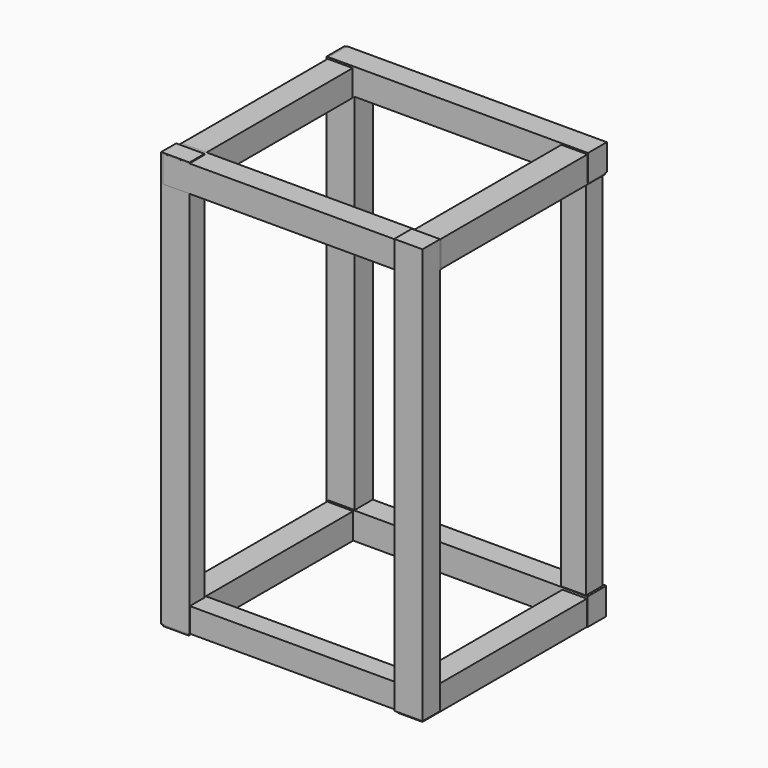
from build123d import *

# Parameters (mm, degrees)
F1_W          = 25
F1_H          = 25.558808
F1_W_2        = 24.041814
F1_H_2        = 25.213313
F1_W_3        = 23.461955
F1_H_3        = 24.010879
F1_H_4        = 25
F2_DEPTH      = 110
F2_DEPTH_BACK = 110
F3_W          = 27.227469
F3_H          = 22.026211
F3_W_2        = 23.886204
F3_H_2        = 20.272776
F3_W_3        = 27.146042
F3_H_3        = 21.162175
F3_H_4        = 18.046282
F4_DEPTH      = 250
F4_DEPTH_BACK = 150
F5_W          = 22.501841
F5_H          = 25.943548
F5_W_2        = 22.565842
F5_H_2        = 25.395974
F5_W_3        = 20.019822
F5_H_3        = 23.433119
F5_W_4        = 22.03574
F5_H_4        = 25.63703
F6_DEPTH      = 125
F6_DEPTH_BACK = 125


with BuildPart() as f2:
    # F1 (on face) → F2 (new body, two sides)
    with BuildSketch(Plane.XZ) as f2_sk:
        with Locations((111.81776, 236.116279)):
            Rectangle(F1_W, F1_H)
        with Locations((-113.661333, 235.943532)):
            Rectangle(F1_W_2, F1_H_2)
        with Locations((112.586782, -139.444372)):
            Rectangle(F1_W_3, F1_H_3)
        with Locations((-113.18224, -138.949812)):
            Rectangle(F1_W, F1_H_4)
    extrude(amount=F2_DEPTH)
    extrude(f2_sk.sketch, amount=-F2_DEPTH_BACK)


with BuildPart() as f4:
    # F3 (on Top) → F4 (new body, two sides)
    with BuildSketch(Plane.XY) as f4_sk:
        with Locations((-113.356497, 99.570536)):
            Rectangle(F3_W, F3_H)
        with Locations((110.932022, 98.693818)):
            Rectangle(F3_W_2, F3_H_2)
        with Locations((111.84977, -100.724187)):
            Rectangle(F3_W_3, F3_H_3)
        with Locations((-113.356497, -101.244222)):
            Rectangle(F3_W, F3_H_4)
    extrude(amount=F4_DEPTH)
    extrude(f4_sk.sketch, amount=-F4_DEPTH_BACK)


with BuildPart() as f6:
    # F5 (on Right) → F6 (new body, two sides)
    with BuildSketch(Plane.YZ) as f6_sk:
        with Locations((99.127353, -138.399765)):
            Rectangle(F5_W, F5_H)
        with Locations((99.777639, 237.595625)):
            Rectangle(F5_W_2, F5_H_2)
        with Locations((-99.815253, -137.906774)):
            Rectangle(F5_W_3, F5_H_3)
        with Locations((-99.277768, 236.325413)):
            Rectangle(F5_W_4, F5_H_4)
    extrude(amount=F6_DEPTH)
    extrude(f6_sk.sketch, amount=-F6_DEPTH_BACK)


solid = Compound([f2.part, f4.part, f6.part])
